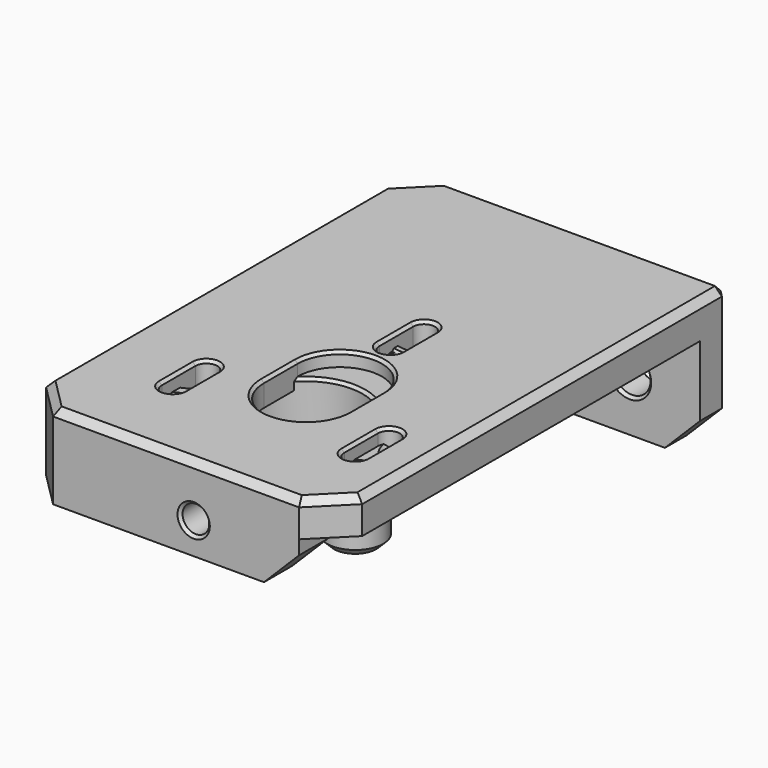
from build123d import *

# Parameters (mm, degrees)
PAD_DEPTH       = 9
SKETCH001_R     = 2
POCKET_DEPTH    = 9.001
SKETCH002_R     = 8.05
POCKET001_DEPTH = 7
SKETCH003_R     = 6
POCKET002_DEPTH = 2.001
FILLET_R        = 4
CHAMFER_SIZE    = 0.4
CHAMFER001_SIZE = 1
SKETCH004_W     = 45
SKETCH004_H     = 70
PAD001_DEPTH    = 5
POCKET003_DEPTH = 5.001
POCKET004_DEPTH = 1.5
PAD002_DEPTH    = 15
SKETCH008_W     = 35.1
SKETCH008_H     = 5
PAD003_DEPTH    = 15
POCKET005_DEPTH = 45.001
SKETCH010_R     = 1.9
POCKET006_DEPTH = 5
CHAMFER009_SIZE = 4.99
CHAMFER010_SIZE = 1
CHAMFER011_SIZE = 0.4
SKETCH011_R     = 2.65
POCKET007_DEPTH = 5
SKETCH012_R     = 2.65
POCKET008_DEPTH = 5
CHAMFER012_SIZE = 0.4
TUBE_R          = 8
TUBE_R_2        = 6.5
TUBE_DEPTH      = 3.3
CHAMFER008_SIZE = 0.4


with BuildPart() as bearing_housing:
    # Sketch → Pad (new body)
    with BuildSketch(Plane.XY):
        with BuildLine():
            ThreePointArc((2.3549, 11.766667), (0, 19), (-2.3549, 11.766667))
            ThreePointArc((-2.3549, 11.766667), (-10.392305, 6), (-11.367682, -3.84393))
            ThreePointArc((-11.367682, -3.84393), (-16.454483, -9.5), (-9.012782, -7.922737))
            ThreePointArc((-9.012782, -7.922737), (0, -12), (9.012782, -7.922737))
            ThreePointArc((9.012782, -7.922737), (16.454483, -9.5), (11.367682, -3.84393))
            ThreePointArc((11.367682, -3.84393), (10.392305, 6), (2.3549, 11.766667))
        make_face()
    extrude(amount=PAD_DEPTH)

    # Sketch001 (on Face8 of Pad) → Pocket (cut, through all)
    with BuildSketch(Plane.XY.offset(9)):
        with Locations((0, 15)):
            Circle(SKETCH001_R)
        with Locations((-12.990381, -7.5)):
            Circle(SKETCH001_R)
        with Locations((12.990381, -7.5)):
            Circle(SKETCH001_R)
    extrude(amount=-POCKET_DEPTH, mode=Mode.SUBTRACT)

    # Sketch002 (on Face5 of Pocket) → Pocket001 (cut)
    with BuildSketch(Plane.XY.offset(9)):
        Circle(SKETCH002_R)
    extrude(amount=-POCKET001_DEPTH, mode=Mode.SUBTRACT)

    # Sketch003 (on Face13 of Pocket001) → Pocket002 (cut, through all)
    with BuildSketch(Plane.XY.offset(2)):
        Circle(SKETCH003_R)
    extrude(amount=-POCKET002_DEPTH, mode=Mode.SUBTRACT)

    # Fillet
    fillet_edges = [bearing_housing.edges().sort_by_distance(p)[0] for p in [
        (-9.012782, -7.922737, 4.5),
        (9.012782, -7.922737, 4.5),
        (11.367682, -3.84393, 4.5),
        (2.3549, 11.766667, 4.5),
        (-2.3549, 11.766667, 4.5),
        (-11.367682, -3.84393, 4.5),
    ]]
    fillet(fillet_edges, radius=FILLET_R)

    # Chamfer
    chamfer_edges = [bearing_housing.edges().sort_by_distance(p)[0] for p in [
        (0, 19, 9),
        (4.335142, 12.133648, 9),
        (-4.335142, 12.133648, 9),
        (10.392305, 6, 9),
        (-10.392305, 6, 9),
        (12.675618, -2.31248, 9),
        (-12.675618, -2.31248, 9),
        (16.454483, -9.5, 9),
        (-16.454483, -9.5, 9),
        (8.340476, -9.821167, 9),
        (-8.340476, -9.821167, 9),
        (0, -12, 9),
        (-14.990381, -7.5, 9),
        (10.990381, -7.5, 9),
        (-8.05, 0, 9),
        (-2, 15, 9),
        (-14.990381, -7.5, 0),
        (-2, 15, 0),
        (10.990381, -7.5, 0),
    ]]
    chamfer(chamfer_edges, length=CHAMFER_SIZE)

    # Chamfer001
    chamfer001_edges = [bearing_housing.edges().sort_by_distance(p)[0] for p in [
        (-10.392305, 6, 0),
        (-6, 0, 0),
    ]]
    chamfer(chamfer001_edges, length=CHAMFER001_SIZE)


with BuildPart() as bearing_housing_1:
    # Body placement: moved
    add(bearing_housing.part.moved(Location((0, -25, -6))))


with BuildPart() as body001:
    # Sketch004 → Pad001 (new body)
    with BuildSketch(Plane.XY):
        with Locations((-2.5, -10)):
            Rectangle(SKETCH004_W, SKETCH004_H)
    extrude(amount=PAD001_DEPTH)

    # Sketch005 (on Face5 of Pad001) → Pocket003 (cut, through all)
    with BuildSketch(Plane(origin=(0, 0, 0), x_dir=(1, 0, 0), z_dir=(0, 0, -1))):
        with BuildLine():
            ThreePointArc((-11.440381, 32.5), (-12.990381, 34.05), (-14.540381, 32.5))
            Line((-14.540381, 32.5), (-14.540381, 26.5))
            ThreePointArc((-14.540381, 26.5), (-12.990381, 24.95), (-11.440381, 26.5))
            Line((-11.440381, 32.5), (-11.440381, 26.5))
        make_face()
        with BuildLine():
            ThreePointArc((14.540381, 32.5), (12.990381, 34.05), (11.440381, 32.5))
            Line((11.440381, 32.5), (11.440381, 26.5))
            ThreePointArc((11.440381, 26.5), (12.990381, 24.95), (14.540381, 26.5))
            Line((14.540381, 32.5), (14.540381, 26.5))
        make_face()
        with BuildLine():
            ThreePointArc((1.55, 10), (0, 11.55), (-1.55, 10))
            Line((-1.55, 10), (-1.55, 4))
            ThreePointArc((-1.55, 4), (0, 2.45), (1.55, 4))
            Line((1.55, 10), (1.55, 4))
        make_face()
        with BuildLine():
            ThreePointArc((6, 25), (0, 31), (-6, 25))
            Line((-6, 25), (-6, 19))
            ThreePointArc((-6, 19), (0, 13), (6, 19))
            Line((6, 25), (6, 19))
        make_face()
    extrude(amount=-POCKET003_DEPTH, mode=Mode.SUBTRACT)

    # Sketch006 (on Face4 of Pocket003) → Pocket004 (cut)
    with BuildSketch(Plane(origin=(0, 0, 0), x_dir=(1, 0, 0), z_dir=(0, 0, -1))):
        with BuildLine():
            ThreePointArc((8.1, 25), (0, 33.1), (-8.1, 25))
            Line((-8.1, 25), (-8.1, 19))
            ThreePointArc((-8.1, 19), (0, 10.9), (8.1, 19))
            Line((8.1, 25), (8.1, 19))
        make_face()
    extrude(amount=-POCKET004_DEPTH, mode=Mode.SUBTRACT)

    # Sketch007 (on Face4 of Pocket004) → Pad002 (join)
    with BuildSketch(Plane(origin=(0, 0, 0), x_dir=(1, 0, 0), z_dir=(0, 0, -1))):
        Polygon((-25, 45), (-20.1, 45), (-20.1, -20.1), (20, -20.1), (20, -25), (-25, -25), align=None)
    extrude(amount=PAD002_DEPTH)

    # Sketch008 (on Face9 of Pad002) → Pad003 (join)
    with BuildSketch(Plane(origin=(0, 0, 0), x_dir=(1, 0, 0), z_dir=(0, 0, -1))):
        with Locations((-2.55, 42.5)):
            Rectangle(SKETCH008_W, SKETCH008_H)
    extrude(amount=PAD003_DEPTH)

    # Sketch009 (on Face7 of Pad003) → Pocket005 (cut, through all)
    with BuildSketch(Plane(origin=(-25, 0, 0), x_dir=(0, -1, 0), z_dir=(-1, 0, 0))):
        Polygon((45, -7), (45, -15), (0, -15), (40, -7), align=None)
    extrude(amount=-POCKET005_DEPTH, mode=Mode.SUBTRACT)

    # Sketch010 (on Face27 of Pocket005) → Pocket006 (cut)
    with BuildSketch(Plane.XZ.offset(45)):
        with Locations((0, -2.5)):
            Circle(SKETCH010_R)
    extrude(amount=-POCKET006_DEPTH, mode=Mode.SUBTRACT)

    # Chamfer009
    chamfer009_edges = [body001.edges().sort_by_distance(p)[0] for p in [
        (20, -45, 2.5),
        (15, -42.5, -7),
        (-25, -45, -1),
        (-25, 25, -5),
        (20, 22.55, -15),
    ]]
    chamfer(chamfer009_edges, length=CHAMFER009_SIZE)

    # Chamfer010
    chamfer010_edges = [body001.edges().sort_by_distance(p)[0] for p in [
        (20, 25, -2.505),
        (17.505, 25, -12.505),
        (-2.5, 25, -15),
        (-22.505, 22.505, -15),
        (-25, 10.005, -15),
        (20, -7.505, 5),
        (-0.005, 25, 5),
        (-22.505, 22.505, 5),
        (-25, -10, 5),
        (17.505, -42.505, 5),
        (-2.5, -45, 5),
        (-22.505, -42.505, 5),
    ]]
    chamfer(chamfer010_edges, length=CHAMFER010_SIZE)

    # Chamfer011
    chamfer011_edges = [body001.edges().sort_by_distance(p)[0] for p in [
        (11.440381, -29.5, 5),
        (-6, -22, 5),
        (-14.540381, -29.5, 5),
        (-1.55, -7, 5),
        (-11.440381, -29.5, 0),
        (14.540381, -29.5, 0),
        (1.55, -7, 0),
        (8.1, -22, 0),
        (-1.9, -45, -2.5),
    ]]
    chamfer(chamfer011_edges, length=CHAMFER011_SIZE)

    # Sketch011 (on Face81 of Chamfer011) → Pocket007 (cut)
    with BuildSketch(Plane(origin=(0, 25, 0), x_dir=(-1, 0, 0), z_dir=(0, 1, 0))):
        with Locations((-10, -7.5)):
            Circle(SKETCH011_R)
    extrude(amount=-POCKET007_DEPTH, mode=Mode.SUBTRACT)

    # Sketch012 (on Face36 of Pocket007) → Pocket008 (cut)
    with BuildSketch(Plane(origin=(-25, 0, 0), x_dir=(0, -1, 0), z_dir=(-1, 0, 0))):
        with Locations((-10, -7.5)):
            Circle(SKETCH012_R)
    extrude(amount=-POCKET008_DEPTH, mode=Mode.SUBTRACT)

    # Chamfer012
    chamfer012_edges = [body001.edges().sort_by_distance(p)[0] for p in [
        (12.65, 25, -7.5),
        (-25, 12.65, -7.5),
        (12.65, 20.1, -7.5),
        (-20.1, 12.65, -7.5),
    ]]
    chamfer(chamfer012_edges, length=CHAMFER012_SIZE)


with BuildPart() as chamfer008:
    # Tube → Tube (new body)
    with BuildSketch(Plane.XY):
        Circle(TUBE_R)
        Circle(TUBE_R_2, mode=Mode.SUBTRACT)
    extrude(amount=TUBE_DEPTH)

    # Chamfer008
    chamfer008_edges = [chamfer008.edges().sort_by_distance(p)[0] for p in [
        (-8, 0, 3.3),
        (-8, 0, 0),
        (-6.5, 0, 3.3),
        (-6.5, 0, 0),
    ]]
    chamfer(chamfer008_edges, length=CHAMFER008_SIZE)


solid = Compound([bearing_housing_1.part, body001.part, chamfer008.part])
